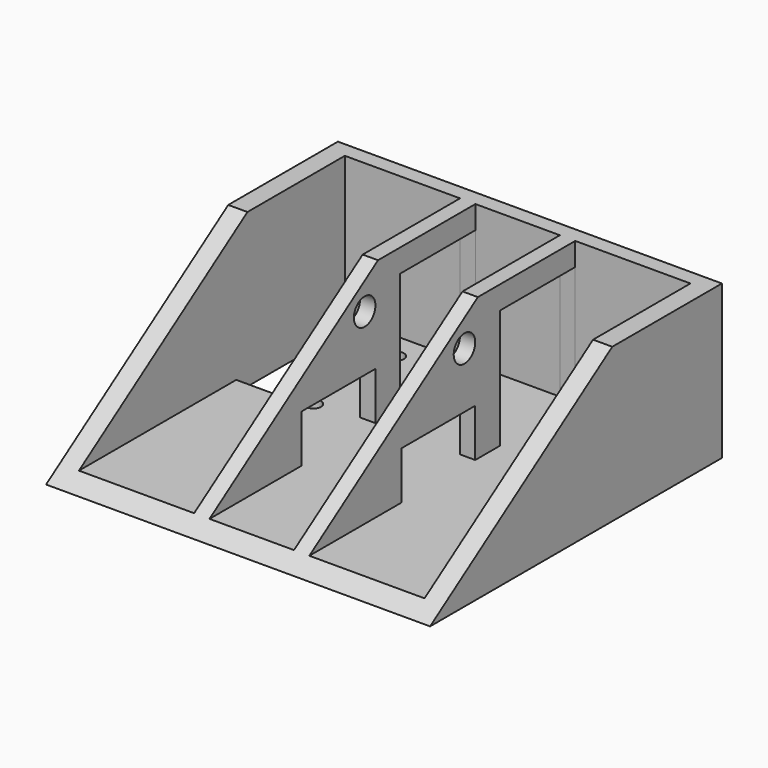
from build123d import *

# Parameters (mm, degrees)
F1_DEPTH = 50
F2_W     = 30
F2_H     = 91
F2_W_2   = 22
F3_DEPTH = 37
F4_W     = 24
F4_H     = 12.44826
F4_R     = 3.5
F4_W_2   = 24.552317
F4_H_2   = 31
F5_DEPTH = 30
F6_W     = 12
F6_H     = 30
F6_R     = 2
F7_DEPTH = 3.001


with BuildPart() as f1:
    # F0 (on Right) → F1 (new body, symmetric)
    with BuildSketch(Plane.YZ):
        Polygon((0, 40), (-35.697561, 40), (-95, 0), (0, 0), align=None)
    extrude(amount=F1_DEPTH, both=True)

    # F2 (on face) → F3 (cut)
    with BuildSketch(Plane.XY.offset(40)):
        with Locations((-30, -49.5)):
            Rectangle(F2_W, F2_H)
        with Locations((30, -49.5)):
            Rectangle(F2_W, F2_H)
        with Locations((0, -49.5)):
            Rectangle(F2_W_2, F2_H)
    extrude(amount=-F3_DEPTH, mode=Mode.SUBTRACT)

    # F4 (on face) → F5 (cut, through all)
    with BuildSketch(Plane.YZ.offset(15)):
        with Locations((-48.552317, 9.22413)):
            Rectangle(F4_W, F4_H)
        with Locations((-40.052317, 30)):
            Circle(F4_R)
        with Locations((-16.276159, 18.5)):
            Rectangle(F4_W_2, F4_H_2)
    extrude(amount=-F5_DEPTH, mode=Mode.SUBTRACT)

    # F6 (on face) → F7 (cut, through all)
    with BuildSketch(Plane.XY.offset(3)):
        with Locations((-39, -24.347831)):
            Rectangle(F6_W, F6_H)
        with Locations((39, -24.347831)):
            Rectangle(F6_W, F6_H)
        with Locations((-26.107078, -10.847831)):
            Circle(F6_R)
        with Locations((-26.107078, -37.847831)):
            Circle(F6_R)
        with Locations((26.107078, -10.847831)):
            Circle(F6_R)
        with Locations((26.107078, -37.847831)):
            Circle(F6_R)
    extrude(amount=-F7_DEPTH, mode=Mode.SUBTRACT)


solid = f1.part
